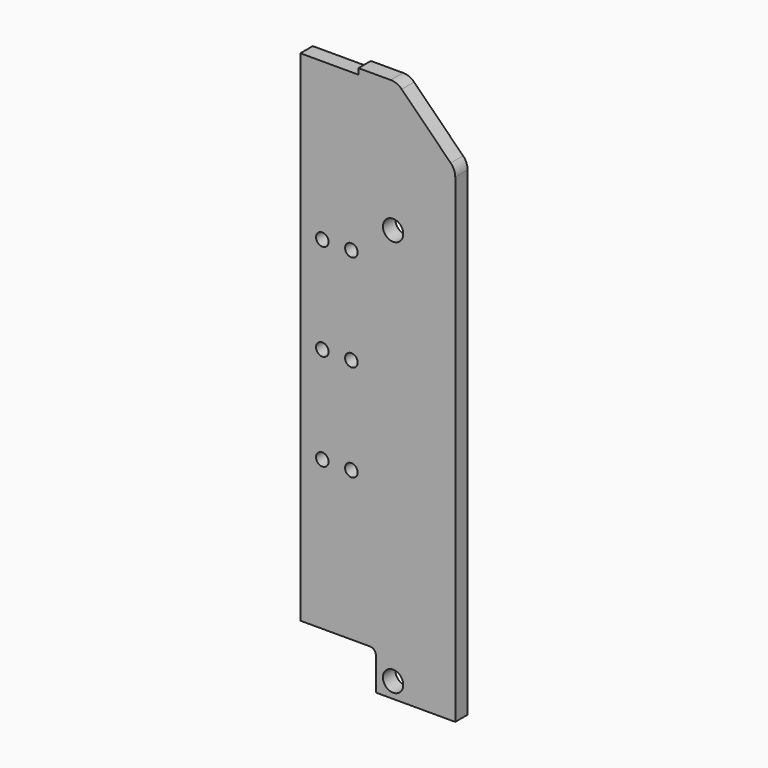
from build123d import *

# Parameters (mm, degrees)
F1_DEPTH = 8
F2_SIZE  = 30
F3_R     = 8
F4_R     = 3
F6_D     = 6.5
F8_D     = 10.5


with BuildPart() as f1:
    # F0 (on Front) → F1 (new body)
    with BuildSketch(Plane.XZ):
        Polygon((-41, 0), (0, 0), (0, 281), (-50, 281), (-50, 278), (-80, 278), (-80, 20), (-41, 20), align=None)
    extrude(amount=F1_DEPTH)

    # F2
    f2_edges = [f1.edges().sort_by_distance(p)[0] for p in [
        (0, -4, 281),
    ]]
    chamfer(f2_edges, length=F2_SIZE)

    # F3
    f3_edges = [f1.edges().sort_by_distance(p)[0] for p in [
        (-30, -4, 281),
        (0, -4, 251),
    ]]
    fillet(f3_edges, radius=F3_R)

    # F4
    f4_edges = [f1.edges().sort_by_distance(p)[0] for p in [
        (-41, -4, 20),
    ]]
    fillet(f4_edges, radius=F4_R)

    # F6 (through all)
    with Locations(Plane.XZ.offset(8)):
        with Locations((-68.65, 197), (-53.65, 197), (-53.65, 147), (-68.65, 147), (-53.65, 97), (-68.65, 97)):
            Hole(F6_D / 2)

    # F8 (through all)
    with Locations(Plane.XZ.offset(8)):
        with Locations((-32.1, 213.1), (-32.1, 8.1)):
            Hole(F8_D / 2)


solid = f1.part
